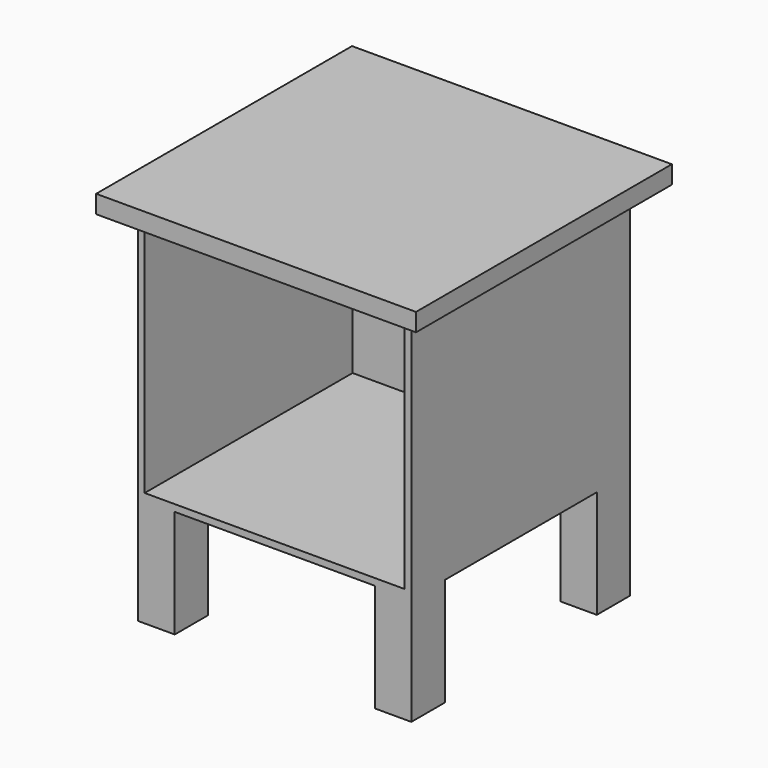
from build123d import *

# Parameters (mm, degrees)
F0_W     = 380
F0_H     = 380
F1_DEPTH = 350
F2_W     = 361
F2_H     = 331
F3_DEPTH = 361
F4_W     = 50.3650778532
F4_H     = 58.1228607893
F4_H_2   = 57.9308593273
F4_W_2   = 55.3338849545
F4_H_3   = 64.9694228172
F4_W_3   = 51.270159483
F5_DEPTH = 150
F6_W     = 444.3413615227
F6_H     = 444.3413615227
F6_W_2   = 380
F6_H_2   = 380
F7_DEPTH = 25


with BuildPart() as f1:
    # F0 (on Top) → F1 (new body)
    with BuildSketch(Plane.XY):
        Rectangle(F0_W, F0_H)
    extrude(amount=F1_DEPTH)

    # F2 (on face) → F3 (cut)
    with BuildSketch(Plane.XZ.offset(190)):
        with Locations((0, 175)):
            Rectangle(F2_W, F2_H)
    extrude(amount=-F3_DEPTH, mode=Mode.SUBTRACT)

    # F4 (on face) → F5 (join)
    with BuildSketch(Plane(origin=(0, 0, 0), x_dir=(1, 0, 0), z_dir=(0, 0, -1))):
        with Locations((164.8174610734, 160.9385696054)):
            Rectangle(F4_W, F4_H)
        with Locations((164.8174610734, -161.0345703363)):
            Rectangle(F4_W, F4_H_2)
        with Locations((-162.3330575228, -157.5152885914)):
            Rectangle(F4_W_2, F4_H_3)
        with Locations((-164.3649202585, 160.9385696054)):
            Rectangle(F4_W_3, F4_H)
    extrude(amount=F5_DEPTH)

    # F6 (on face) → F7 (join)
    with BuildSketch(Plane.XY.offset(350)):
        Rectangle(F6_W, F6_H)
        Rectangle(F6_W_2, F6_H_2, mode=Mode.SUBTRACT)
        Rectangle(F6_W_2, F6_H_2)
    extrude(amount=F7_DEPTH)


solid = f1.part
